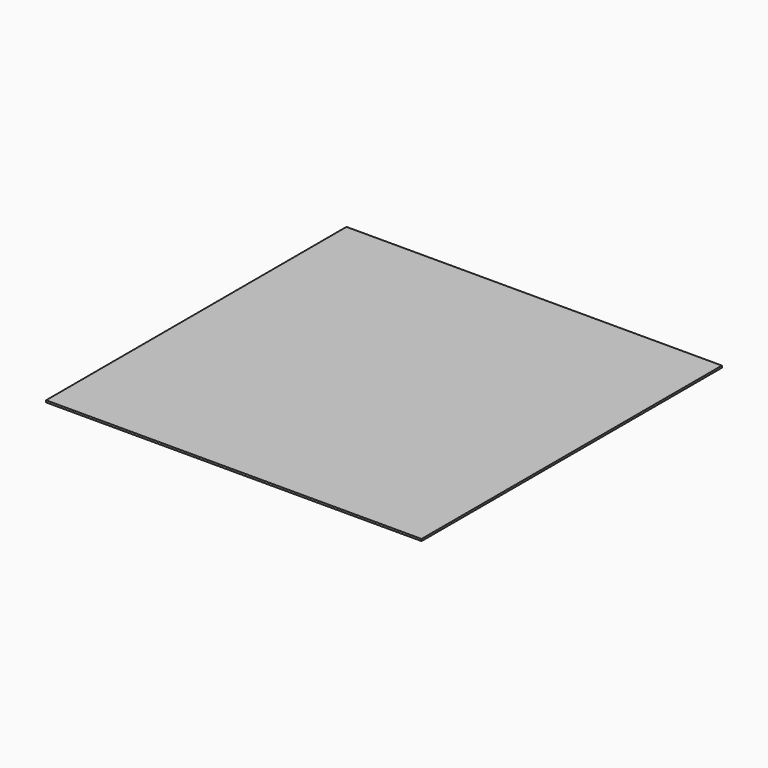
from build123d import *

# Parameters (mm, degrees)
F0_W     = 1219.2
F0_H     = 1219.2
F0_W_2   = 914.4
F0_H_2   = 914.4
F1_DEPTH = 6.35
F2_W     = 914.4
F2_H     = 914.4
F2_W_2   = 863.6
F2_H_2   = 863.6
F3_DEPTH = 57.15


with BuildPart() as f1:
    # F0 (on Top) → F1 (new body)
    with BuildSketch(Plane.XY):
        Rectangle(F0_W, F0_H)
        Rectangle(F0_W_2, F0_H_2, mode=Mode.SUBTRACT)
        Rectangle(F0_W_2, F0_H_2)
    extrude(amount=F1_DEPTH)

    # F2 (on face) → F3 (join)
    with BuildSketch(Plane.XY.offset(6.35)):
        Rectangle(F2_W, F2_H)
        Rectangle(F2_W_2, F2_H_2, mode=Mode.SUBTRACT)
    extrude(amount=-F3_DEPTH)


solid = f1.part
